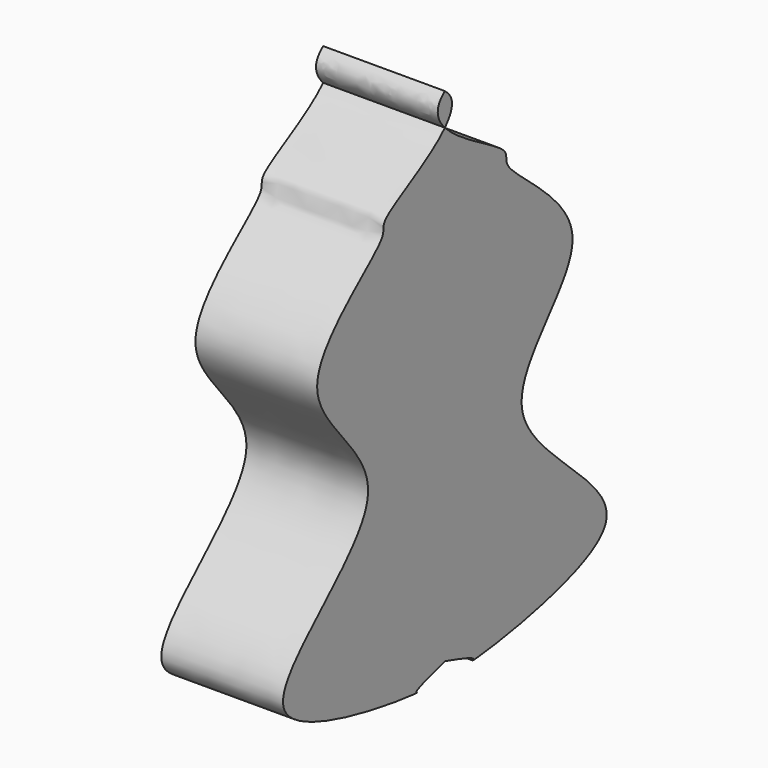
from build123d import *

# Parameters (mm, degrees)
F1_DEPTH = 25.4


with BuildPart() as f1:
    # F0 (on Right) → F1 (new body)
    with BuildSketch(Plane.YZ):
        with BuildLine():
            add(Edge.make_bspline(
                [(0, 53.1802251935), (2.7870144734, 51.0494184634), (2.147762332, 48.7132021599), (0, 46.4371542997)],
                knots=[0, 0, 0, 0, 0.0519044287, 0.0519044287, 0.0519044287, 0.0519044287], degree=3))
            add(Edge.make_bspline(
                [(0, 53.1802251935), (-2.7870144734, 51.0494184634), (-2.147762332, 48.7132021599), (0, 46.4371542997)],
                knots=[0, 0, 0, 0, 0.0519044287, 0.0519044287, 0.0519044287, 0.0519044287], degree=3))
        make_face()
    extrude(amount=F1_DEPTH)


with BuildPart() as f1b:
    # F0 (on Right) → F1, piece 2 (new body)
    with BuildSketch(Plane.YZ):
        with BuildLine():
            add(Edge.make_bspline(
                [(0, 46.4371542997), (3.8970489909, 42.3073351456), (18.116257267, 35.999901244), (13.0482109573, 32.4999144457), (48.2641668655, 12.0643168389), (1.1935045924, -13.5683465052), (68.8996496136, -47.7518296443), (4.5691884698, -55.0157677479), (8.6797327327, -54.0051436978), (0.4649901595, -51.7222119491), (0, -51.5640111946)],
                knots=[0.0519044287, 0.0519044287, 0.0519044287, 0.0519044287, 0.1460834255, 0.2029901606, 0.3603095899, 0.5267846268, 0.7132338517, 0.8974219604, 0.9137926987, 0.9943782221, 0.9943782221, 0.9943782221, 0.9943782221], degree=3))
            add(Edge.make_bspline(
                [(0, 46.4371542997), (-3.8970489909, 42.3073351456), (-18.116257267, 35.999901244), (-13.0482109573, 32.4999144457), (-48.2641668655, 12.0643168389), (-1.1935045924, -13.5683465052), (-68.8996496136, -47.7518296443), (-4.5691884698, -55.0157677479), (-8.6797327327, -54.0051436978), (-0.4649901595, -51.7222119491), (0, -51.5640111946)],
                knots=[0.0519044287, 0.0519044287, 0.0519044287, 0.0519044287, 0.1460834255, 0.2029901606, 0.3603095899, 0.5267846268, 0.7132338517, 0.8974219604, 0.9137926987, 0.9943782221, 0.9943782221, 0.9943782221, 0.9943782221], degree=3))
        make_face()
        with BuildLine():
            add(Edge.make_bspline(
                [(0, -51.5640111946), (0.0324384739, -51.5529748513), (0.0339115852, -51.5504029674), (0, -51.5573397279)],
                knots=[0.9943782221, 0.9943782221, 0.9943782221, 0.9943782221, 1, 1, 1, 1], degree=3))
            add(Edge.make_bspline(
                [(0, -51.5640111946), (-0.0324384739, -51.5529748513), (-0.0339115852, -51.5504029674), (0, -51.5573397279)],
                knots=[0.9943782221, 0.9943782221, 0.9943782221, 0.9943782221, 1, 1, 1, 1], degree=3))
        make_face(mode=Mode.SUBTRACT)
        with BuildLine():
            add(Edge.make_bspline(
                [(0, -51.5640111946), (-0.0324384739, -51.5529748513), (-0.0339115852, -51.5504029674), (0, -51.5573397279)],
                knots=[0.9943782221, 0.9943782221, 0.9943782221, 0.9943782221, 1, 1, 1, 1], degree=3))
            add(Edge.make_bspline(
                [(0, -51.5640111946), (0.0324384739, -51.5529748513), (0.0339115852, -51.5504029674), (0, -51.5573397279)],
                knots=[0.9943782221, 0.9943782221, 0.9943782221, 0.9943782221, 1, 1, 1, 1], degree=3))
        make_face()
    extrude(amount=F1_DEPTH)


solid = Compound([f1.part, f1b.part])
